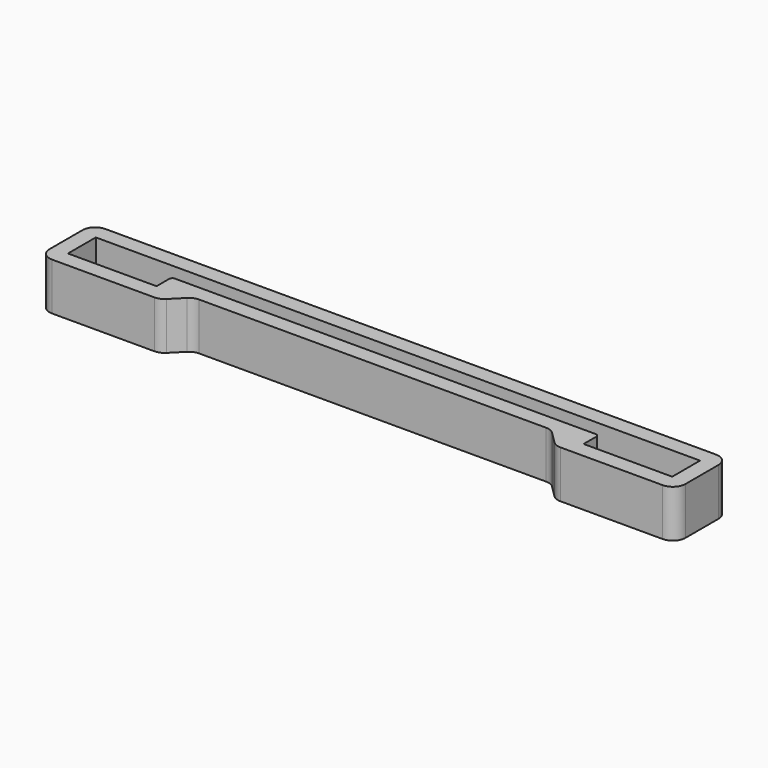
from build123d import *

# Parameters (mm, degrees)
F1_DEPTH = 15
F3_DEPTH = 10
F4_R     = 1
F5_R     = 4


with BuildPart() as f1:
    # F0 (on Top) → F1 (new body)
    with BuildSketch(Plane.XY):
        Polygon((100.5, 21), (-100.5, 21), (-100.5, 0), (-62.5, 0), (-56.5, 6), (56.5, 6), (62.5, 0), (100.5, 0), align=None)
    extrude(amount=F1_DEPTH)

    # F2 (on face) → F3 (cut)
    with BuildSketch(Plane.XY.offset(15)):
        Polygon((95.5, 16), (-95.5, 16), (-95.5, 5), (-67.5, 5), (-67.5, 11), (67.5, 11), (67.5, 5), (95.5, 5), align=None)
    extrude(amount=-F3_DEPTH, mode=Mode.SUBTRACT)

    # F4
    f4_edges = [f1.edges().sort_by_distance(p)[0] for p in [
        (67.5, 11, 10),
        (-67.5, 11, 10),
    ]]
    fillet(f4_edges, radius=F4_R)

    # F5
    f5_edges = [f1.edges().sort_by_distance(p)[0] for p in [
        (-62.5, 0, 7.5),
        (-56.5, 6, 7.5),
        (56.5, 6, 7.5),
        (62.5, 0, 7.5),
        (-100.5, 0, 7.5),
        (-100.5, 21, 7.5),
        (100.5, 21, 7.5),
        (100.5, 0, 7.5),
    ]]
    fillet(f5_edges, radius=F5_R)


solid = f1.part
